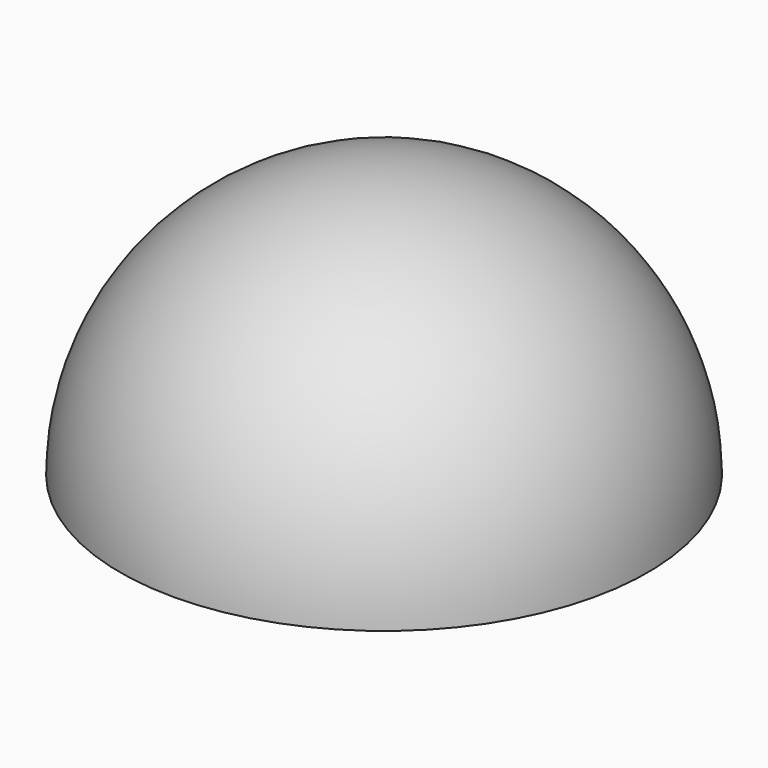
from build123d import *

# Parameters (mm, degrees)
F1_ANGLE = 180
F2_R     = 11
F3_DEPTH = 60


with BuildPart() as f1:
    # F0 (on Top) → F1 (revolve)
    with BuildSketch(Plane.XY):
        with BuildLine():
            ThreePointArc((0, -30), (21.2132034356, -21.2132034356), (30, 0))
            ThreePointArc((30, 0), (21.2132034356, 21.2132034356), (0, 30))
            Line((0, 30), (0, 27.5))
            ThreePointArc((0, 27.5), (19.4454364826, 19.4454364826), (27.5, 0))
            ThreePointArc((27.5, 0), (19.4454364826, -19.4454364826), (0, -27.5))
            Line((0, -27.5), (0, -30))
        make_face()
    revolve(axis=Axis((0, 0, 0), (0, -1, 0)), revolution_arc=F1_ANGLE)

    # F2 (on Front) → F3 (cut)
    with BuildSketch(Plane.XZ):
        Circle(F2_R)
    extrude(amount=-F3_DEPTH, mode=Mode.SUBTRACT)


solid = f1.part
